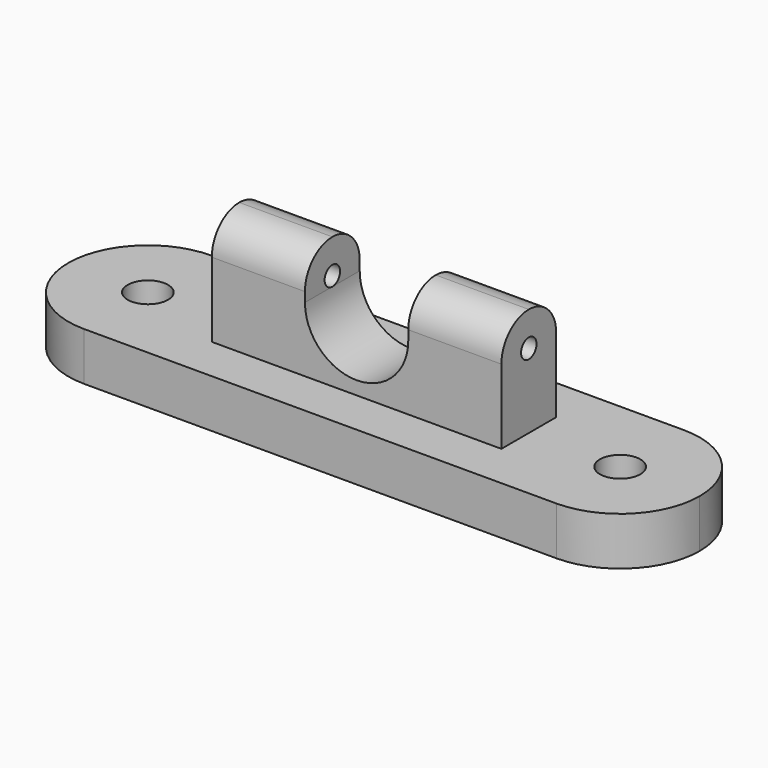
from build123d import *

# Parameters (mm, degrees)
F0_R          = 5.3213500883
F1_DEPTH      = 12.7
F3_DEPTH      = 38.1
F3_DEPTH_BACK = 38.1
F5_DEPTH      = 20.9411715547
F5_DEPTH_BACK = 20.9411715547


with BuildPart() as f1:
    # F0 (on Top) → F1 (new body)
    with BuildSketch(Plane.XY):
        with BuildLine():
            Line((62.1395111084, 20.9401715547), (0, 20.9401715547))
            Line((0, 20.9401715547), (-62.1395111084, 20.9401715547))
            ThreePointArc((-62.1395111084, 20.9401715547), (-76.9464484139, 14.8069373055), (-83.0796826631, 0))
            ThreePointArc((-83.0796826631, 0), (-76.9464484139, -14.8069373055), (-62.1395111084, -20.9401715547))
            Line((-62.1395111084, -20.9401715547), (0, -20.9401715547))
            Line((0, -20.9401715547), (62.1395111084, -20.9401715547))
            ThreePointArc((62.1395111084, -20.9401715547), (76.9464484139, -14.8069373055), (83.0796826631, 0))
            ThreePointArc((83.0796826631, 0), (76.9464484139, 14.8069373055), (62.1395111084, 20.9401715547))
        make_face()
        with Locations((-62.1395111084, 0)):
            Circle(F0_R, mode=Mode.SUBTRACT)
        with Locations((62.1395111084, 0)):
            Circle(F0_R, mode=Mode.SUBTRACT)
    extrude(amount=F1_DEPTH)

    # F2 (on Right) → F3 (join, two sides)
    with BuildSketch(Plane.YZ) as f3_sk:
        with BuildLine():
            Line((-9.0088532658, 12.7), (0, 12.7))
            Line((0, 12.7), (9.0088532658, 12.7))
            Line((9.0088532658, 12.7), (9.0088532658, 32.3224291205))
            ThreePointArc((9.0088532658, 32.3224291205), (6.370221235, 38.6926503555), (0, 41.3312823864))
            ThreePointArc((0, 41.3312823864), (-6.370221235, 38.6926503555), (-9.0088532658, 32.3224291205))
            Line((-9.0088532658, 32.3224291205), (-9.0088532658, 12.7))
        make_face()
        with BuildLine():
            ThreePointArc((0, 29.7824291205), (-2.54, 32.3224291205), (0, 34.8624291205))
            ThreePointArc((0, 34.8624291205), (2.54, 32.3224291205), (0, 29.7824291205))
        make_face(mode=Mode.SUBTRACT)
    extrude(amount=F3_DEPTH)
    extrude(f3_sk.sketch, amount=-F3_DEPTH_BACK)

    # F4 (on Front) → F5 (cut, two sides)
    with BuildSketch(Plane.XZ) as f5_sk:
        with BuildLine():
            Line((13.5943368077, 41.3312823864), (-13.5943368077, 41.3312823864))
            Line((-13.5943368077, 41.3312823864), (-13.5943368077, 29.7987964004))
            ThreePointArc((-13.5943368077, 29.7987964004), (-9.6126477425, 20.1861486579), (0, 16.2044595927))
            ThreePointArc((0, 16.2044595927), (9.6126477425, 20.1861486579), (13.5943368077, 29.7987964004))
            Line((13.5943368077, 29.7987964004), (13.5943368077, 41.3312823864))
        make_face()
    extrude(amount=-F5_DEPTH, mode=Mode.SUBTRACT)
    extrude(f5_sk.sketch, amount=F5_DEPTH_BACK, mode=Mode.SUBTRACT)


solid = f1.part
